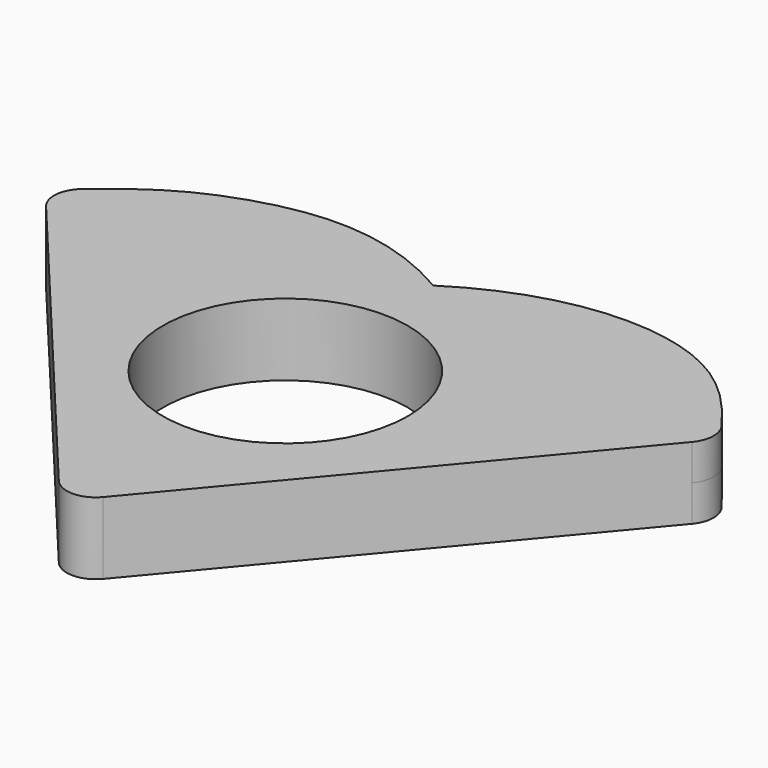
from build123d import *

# Parameters (mm, degrees)
F1_DEPTH = 2.5
F2_R     = 8.5
F3_DEPTH = 5
F4_R     = 2


with BuildPart() as f1:
    # F0 (on Top) → F1 (new body, symmetric)
    with BuildSketch(Plane.XY):
        with BuildLine():
            add(Edge.make_bspline(
                [(0, 12.8306830302), (-5.6033253596, 16.1092708646), (-14.1634437691, 15.2185435642), (-19.7434784059, 11.930183225), (-23.3991518617, 8.4396265447)],
                knots=[0, 0, 0, 0, 0.5245675833, 1, 1, 1, 1], degree=3))
            Line((-23.3991518617, 8.4396265447), (0, -19.5570103824))
            Line((0, -19.5570103824), (23.3991537243, 8.4396265447))
            add(Edge.make_bspline(
                [(23.3991537243, 8.4396265447), (21.1730352272, 11.6721171587), (16.5383048632, 17.0813520932), (5.7577232004, 16.5454135329), (0, 12.8306830302)],
                knots=[0, 0, 0, 0, 0.4436460764, 1, 1, 1, 1], degree=3))
        make_face()
    extrude(amount=F1_DEPTH, both=True)

    # F2 (on face) → F3 (cut)
    with BuildSketch(Plane.XY.offset(2.5)):
        Circle(F2_R)
    extrude(amount=-F3_DEPTH, mode=Mode.SUBTRACT)

    # F4
    f4_edges = [f1.edges().sort_by_distance(p)[0] for p in [
        (-23.399152, 8.439627, -1.25),
        (-23.399152, 8.439627, 1.25),
        (23.399154, 8.439627, -1.25),
        (23.399154, 8.439627, 1.25),
        (0, -19.55701, 0),
    ]]
    fillet(f4_edges, radius=F4_R)


solid = f1.part
